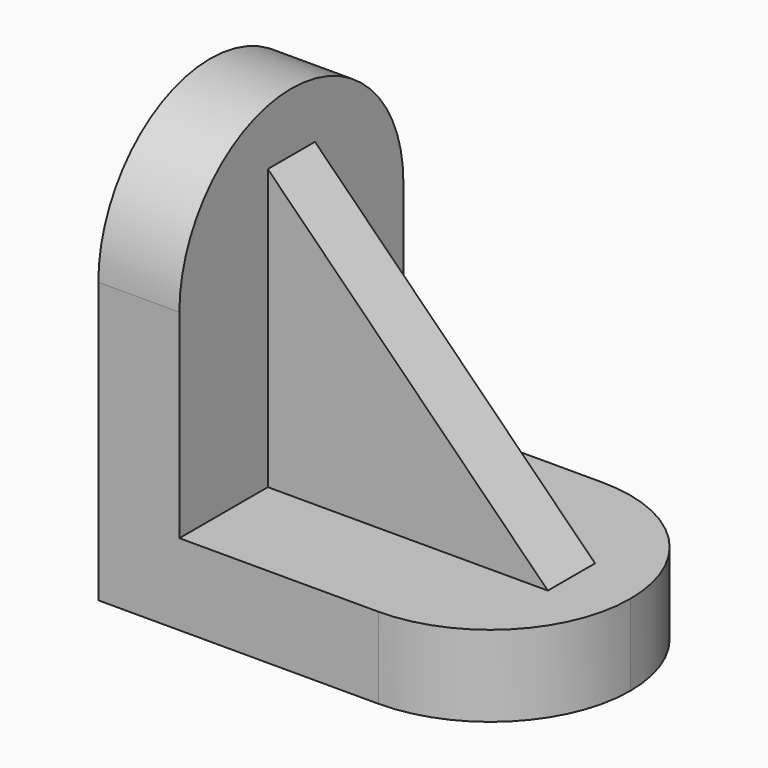
from build123d import *

# Parameters (mm, degrees)
F1_DEPTH = 110.000034
F2_W     = 110
F2_H     = 379.99924
F3_DEPTH = 270
F5_DEPTH = 110
F6_W     = 380
F6_H     = 80
F7_DEPTH = 380
F9_DEPTH = 80


with BuildPart() as f1:
    # F0 (on Top) → F1 (new body)
    with BuildSketch(Plane.XY):
        with BuildLine():
            ThreePointArc((189.99962, -189.99962), (0, 0), (189.99962, 189.99962))
            Line((189.99962, 189.99962), (-189.99962, 189.99962))
            Line((-189.99962, 189.99962), (-189.99962, -189.99962))
            Line((-189.99962, -189.99962), (189.99962, -189.99962))
        make_face()
        with BuildLine():
            ThreePointArc((379.99924, 0), (324.34964, 134.35002), (189.99962, 189.99962))
            Line((189.99962, 189.99962), (189.99962, -189.99962))
            ThreePointArc((189.99962, -189.99962), (324.34964, -134.35002), (379.99924, 0))
        make_face()
        with BuildLine():
            Line((189.99962, -189.99962), (189.99962, 189.99962))
            ThreePointArc((189.99962, 189.99962), (0, 0), (189.99962, -189.99962))
        make_face()
    extrude(amount=F1_DEPTH)

    # F2 (on face) → F3 (join)
    with BuildSketch(Plane.XY.offset(110.000034)):
        with Locations((-134.99962, 0)):
            Rectangle(F2_W, F2_H)
    extrude(amount=F3_DEPTH)

    # F4 (on face) → F5 (join)
    with BuildSketch(Plane(origin=(-189.99962, 0, 0), x_dir=(0, -1, 0), z_dir=(-1, 0, 0))):
        with BuildLine():
            Line((-189.99962, 380.000034), (189.99962, 380.000034))
            ThreePointArc((189.99962, 380.000034), (0, 569.99924), (-189.99962, 380.000034))
        make_face()
    extrude(amount=-F5_DEPTH)

    # F6 (on face) → F7 (join)
    with BuildSketch(Plane.XY.offset(110.000034)):
        with Locations((110.00038, -0.00038)):
            Rectangle(F6_W, F6_H)
    extrude(amount=F7_DEPTH)

    # F8 (on face) → F9 (cut, through all)
    with BuildSketch(Plane.XZ.offset(40.00038)):
        Polygon((300.00038, 490.000034), (-79.99962, 490.000034), (300.00038, 110.000034), align=None)
    extrude(amount=-F9_DEPTH, mode=Mode.SUBTRACT)


solid = f1.part
